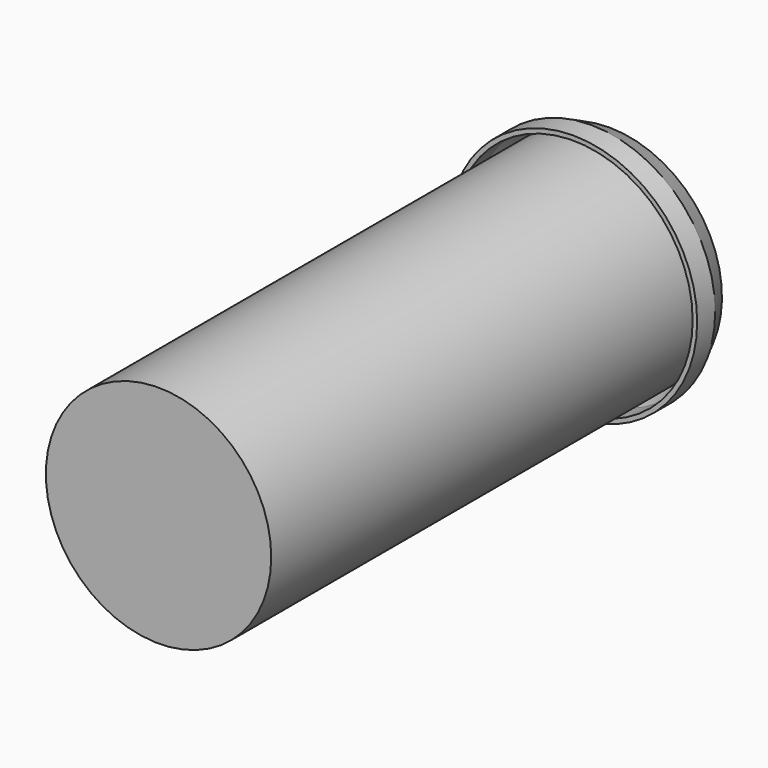
from build123d import *

# Parameters (mm, degrees)
F0_R     = 5
F1_DEPTH = 25
F2_R     = 5.5
F3_DEPTH = 1
F8_R     = 5.5
F8_R_2   = 5.3
F9_DEPTH = 1


with BuildPart() as f1:
    # F0 (on Front) → F1 (new body)
    with BuildSketch(Plane.XZ):
        Circle(F0_R)
    extrude(amount=F1_DEPTH)

    # F2 (on face) → F3 (join)
    with BuildSketch(Plane(origin=(0, 0, 0), x_dir=(-1, 0, 0), z_dir=(0, 1, 0))):
        Circle(F2_R)
    extrude(amount=-F3_DEPTH)

    # F4 (on Right) → F5 (revolve, cut)
    with BuildSketch(Plane.YZ):
        Polygon((0, 5.5), (-1, 5.5), (0, 5), align=None)
    revolve(axis=Axis((0, -11.148525, 0), (0, 1, 0)), mode=Mode.SUBTRACT)

    # F6 (on Right) → F7 (revolve, cut)
    with BuildSketch(Plane.YZ):
        Polygon((-1, 5), (-0.3, 5), (-1, 5.3), align=None)
    revolve(axis=Axis((0, -11.529621, 0), (0, 1, 0)), mode=Mode.SUBTRACT)

    # F8 (on face) → F9 (join)
    with BuildSketch(Plane.XZ.offset(1)):
        Circle(F8_R)
        Circle(F8_R_2, mode=Mode.SUBTRACT)
    extrude(amount=F9_DEPTH)


solid = f1.part
